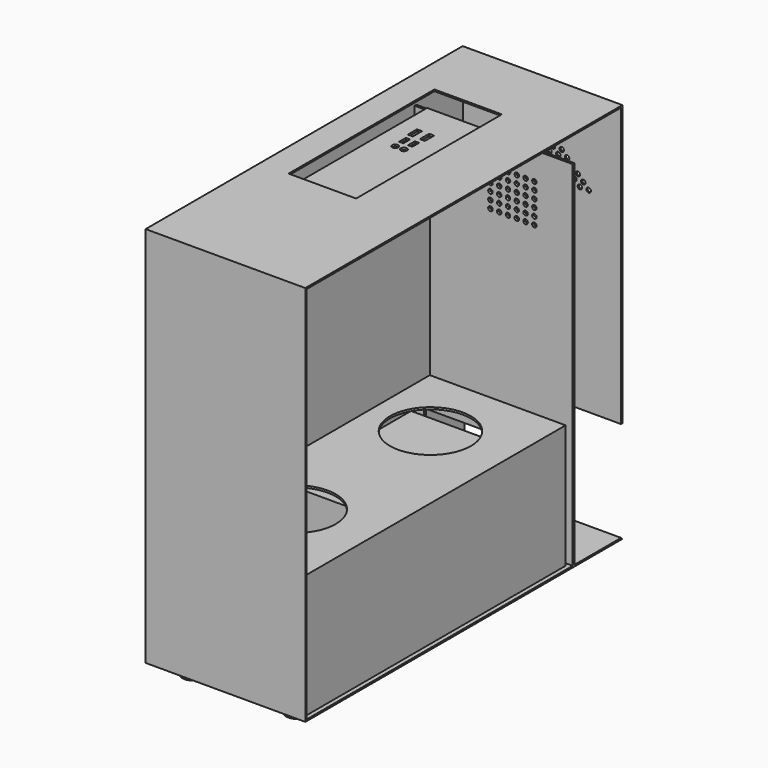
from build123d import *

# Parameters (mm, degrees)
F0_W      = 3.5828351974
F0_H      = 562.3756272411
F1_DEPTH  = 254
F2_DEPTH  = 2.54
F3_R      = 6.35
F4_DEPTH  = 2.54
F5_W      = 220.98
F5_H      = 128.7728445339
F6_DEPTH  = 3.5828351974
F7_W      = 250.1441463828
F7_H      = 131.2140226364
F8_DEPTH  = 236.22
F10_START = 30.48
F9_W      = 4.3791700155
F9_H      = 519.7931451416
F10_DEPTH = 375.92
F11_W     = 519.7931451416
F11_H     = 3.175
F12_DEPTH = 215.9
F13_W     = 461.5151062608
F13_H     = 23.0757594109
F14_DEPTH = 2.54
F15_R     = 64.3365167598
F16_DEPTH = 3.175
F17_R     = 17.78
F18_DEPTH = 12.7
F19_W     = 519.7931451416
F19_H     = 3.175
F20_DEPTH = 159.258
F21_W     = 3.175
F21_H     = 519.7931451416
F22_DEPTH = 30.48
F23_W     = 107.2892919183
F23_H     = 289.8685708642
F24_DEPTH = 2.54
F25_W     = 7.9401656985
F25_H     = 18.3234587312
F25_W_2   = 6.7186057568
F25_H_2   = 13.4372003376
F25_R     = 4.9567406814
F25_W_3   = 7.9401694238
F25_W_4   = 104.2897775769
F25_H_3   = 10.1222246885
F26_DEPTH = 3.175
F27_R     = 3.5606139281
F28_DEPTH = 3.5828351974
F29_R     = 3.5606139281
F30_DEPTH = 2.54
F31_W     = 3.175
F31_H     = 519.7931451416
F32_DEPTH = 193.548


with BuildPart() as f1:
    # F0 (on Right) → F1 (new body)
    with BuildSketch(Plane.YZ):
        Polygon((257.3447751188, -283.4332585335), (257.3447751188, 162.2474640608), (-372.9426860809, 162.2474640608), (-372.9426860809, -445.2261030674), (257.3447751188, -445.2261030674), (254.8047751188, -442.6861030674), (162.1221750975, -442.6861030674), (158.5393399, -442.6861030674), (-370.4026860809, -442.6861030674), (-370.4026860809, 159.7074640608), (254.8047751188, 159.7074640608), (254.8047751188, -283.4332585335), align=None)
        with Locations((160.3307574987, -161.4982894468)):
            Rectangle(F0_W, F0_H)
    extrude(amount=F1_DEPTH)

    # F0 (on Right) → F2 (join)
    with BuildSketch(Plane.YZ):
        Polygon((254.8047751188, -442.6861030674), (254.8047751188, -283.4332585335), (254.8047751188, 159.7074640608), (-370.4026860809, 159.7074640608), (-370.4026860809, -442.6861030674), (158.5393399, -442.6861030674), (158.5393399, 119.6895241737), (162.1221750975, 119.6895241737), (162.1221750975, -442.6861030674), align=None)
        Polygon((257.3447751188, -445.2261030674), (257.3447751188, -283.4332585335), (254.8047751188, -283.4332585335), (254.8047751188, -442.6861030674), align=None)
    extrude(amount=F2_DEPTH)

    # F3 (on face) → F4 (cut, through all)
    with BuildSketch(Plane(origin=(0, 0, -445.2261030674), x_dir=(1, 0, 0), z_dir=(0, 0, -1))):
        with Locations((212.7891480923, -95.8450734615)):
            Circle(F3_R)
        with Locations((212.344, -75.184)):
            Circle(F3_R)
        with Locations((211.8988519077, -54.5229265385)):
            Circle(F3_R)
        with Locations((211.4537038155, -33.8618530769)):
            Circle(F3_R)
        with Locations((211.0085557232, -13.2007796154)):
            Circle(F3_R)
        with Locations((210.5634076309, 7.4602938461)):
            Circle(F3_R)
        with Locations((210.1182595387, 28.1213673077)):
            Circle(F3_R)
        with Locations((182.8171480923, -95.8450734615)):
            Circle(F3_R)
        with Locations((182.372, -75.184)):
            Circle(F3_R)
        with Locations((181.9268519077, -54.5229265385)):
            Circle(F3_R)
        with Locations((181.4817038155, -33.8618530769)):
            Circle(F3_R)
        with Locations((181.0365557232, -13.2007796154)):
            Circle(F3_R)
        with Locations((180.5914076309, 7.4602938461)):
            Circle(F3_R)
        with Locations((180.1462595387, 28.1213673077)):
            Circle(F3_R)
        with Locations((152.8451480923, -95.8450734615)):
            Circle(F3_R)
        with Locations((152.4, -75.184)):
            Circle(F3_R)
        with Locations((151.9548519077, -54.5229265385)):
            Circle(F3_R)
        with Locations((151.5097038155, -33.8618530769)):
            Circle(F3_R)
        with Locations((151.0645557232, -13.2007796154)):
            Circle(F3_R)
        with Locations((150.6194076309, 7.4602938461)):
            Circle(F3_R)
        with Locations((150.1742595387, 28.1213673077)):
            Circle(F3_R)
        with Locations((122.8731480923, -95.8450734615)):
            Circle(F3_R)
        with Locations((122.428, -75.184)):
            Circle(F3_R)
        with Locations((121.9828519077, -54.5229265385)):
            Circle(F3_R)
        with Locations((121.5377038155, -33.8618530769)):
            Circle(F3_R)
        with Locations((121.0925557232, -13.2007796154)):
            Circle(F3_R)
        with Locations((120.6474076309, 7.4602938461)):
            Circle(F3_R)
        with Locations((120.2022595387, 28.1213673077)):
            Circle(F3_R)
        with Locations((92.9011480923, -95.8450734615)):
            Circle(F3_R)
        with Locations((92.456, -75.184)):
            Circle(F3_R)
        with Locations((92.0108519077, -54.5229265385)):
            Circle(F3_R)
        with Locations((91.5657038155, -33.8618530769)):
            Circle(F3_R)
        with Locations((91.1205557232, -13.2007796154)):
            Circle(F3_R)
        with Locations((90.6754076309, 7.4602938461)):
            Circle(F3_R)
        with Locations((90.2302595387, 28.1213673077)):
            Circle(F3_R)
        with Locations((62.9291480923, -95.8450734615)):
            Circle(F3_R)
        with Locations((62.484, -75.184)):
            Circle(F3_R)
        with Locations((62.0388519077, -54.5229265385)):
            Circle(F3_R)
        with Locations((61.5937038155, -33.8618530769)):
            Circle(F3_R)
        with Locations((61.1485557232, -13.2007796154)):
            Circle(F3_R)
        with Locations((60.7034076309, 7.4602938461)):
            Circle(F3_R)
        with Locations((60.2582595387, 28.1213673077)):
            Circle(F3_R)
        with Locations((32.9571480923, -95.8450734615)):
            Circle(F3_R)
        with Locations((32.512, -75.184)):
            Circle(F3_R)
        with Locations((32.0668519077, -54.5229265385)):
            Circle(F3_R)
        with Locations((31.6217038155, -33.8618530769)):
            Circle(F3_R)
        with Locations((31.1765557232, -13.2007796154)):
            Circle(F3_R)
        with Locations((30.7314076309, 7.4602938461)):
            Circle(F3_R)
        with Locations((30.2862595387, 28.1213673077)):
            Circle(F3_R)
    extrude(amount=-F4_DEPTH, mode=Mode.SUBTRACT)

    # F5 (on face) → F6 (cut, through all)
    with BuildSketch(Plane(origin=(0, 162.1221750975, 0), x_dir=(-1, 0, 0), z_dir=(0, 1, 0))):
        with Locations((-128.27, -363.0596808004)):
            Rectangle(F5_W, F5_H)
    extrude(amount=-F6_DEPTH, mode=Mode.SUBTRACT)

    # F7 (on face) → F8 (join)
    with BuildSketch(Plane.YZ.offset(2.54)):
        with Locations((26.4660604298, -370.4201281071)):
            Rectangle(F7_W, F7_H)
    extrude(amount=F8_DEPTH)

    # F9 (on face) → F10 (join)
    with BuildSketch(Plane(origin=(0, 0, 159.7074640608), x_dir=(1, 0, 0), z_dir=(0, 0, -1)).offset(F10_START)):
        with Locations((31.9708129391, 110.5061135101)):
            Rectangle(F9_W, F9_H)
    extrude(amount=F10_DEPTH)

    # F11 (on face) → F12 (join)
    with BuildSketch(Plane.YZ.offset(34.1603979468)):
        with Locations((-110.5061135101, -245.1050359392)):
            Rectangle(F11_W, F11_H)
    extrude(amount=F12_DEPTH)

    # F13 (on face) → F14 (cut, through all)
    with BuildSketch(Plane.YZ.offset(2.54)):
        with Locations((-106.6652052104, -279.5953154564)):
            Rectangle(F13_W, F13_H)
    extrude(amount=-F14_DEPTH, mode=Mode.SUBTRACT)

    # F15 (on face) → F16 (cut, through all)
    with BuildSketch(Plane(origin=(0, 0, -246.6925359392), x_dir=(1, 0, 0), z_dir=(0, 0, -1))):
        with Locations((128.7060081959, 236.3253980875)):
            Circle(F15_R)
        with Locations((128.7060081959, -32.4419997633)):
            Circle(F15_R)
    extrude(amount=-F16_DEPTH, mode=Mode.SUBTRACT)

    # F17 (on face) → F18 (join)
    with BuildSketch(Plane(origin=(0, 0, -445.2261030674), x_dir=(1, 0, 0), z_dir=(0, 0, -1))):
        with Locations((215.4285640589, 340.196877718)):
            Circle(F17_R)
        with Locations((50.1378259488, 340.196877718)):
            Circle(F17_R)
        with Locations((50.1378259488, -224.5989667559)):
            Circle(F17_R)
        with Locations((215.4285640589, -224.5989667559)):
            Circle(F17_R)
    extrude(amount=F18_DEPTH)

    # F19 (on face) → F20 (join)
    with BuildSketch(Plane.YZ.offset(34.1603979468)):
        with Locations((-110.5061135101, 127.6399640608)):
            Rectangle(F19_W, F19_H)
    extrude(amount=F20_DEPTH)

    # F21 (on face) → F22 (join, through all)
    with BuildSketch(Plane.XY.offset(129.2274640608)):
        with Locations((191.8308979468, -110.5061135101)):
            Rectangle(F21_W, F21_H)
    extrude(amount=F22_DEPTH)

    # F23 (on face) → F24 (cut, through all)
    with BuildSketch(Plane.XY.offset(162.2474640608)):
        with Locations((99.1269312799, -0.5644597113)):
            Rectangle(F23_W, F23_H)
    extrude(amount=-F24_DEPTH, mode=Mode.SUBTRACT)

    # F25 (on face) → F26 (cut, through all)
    with BuildSketch(Plane.XY.offset(129.2274640608)):
        with Locations((79.1465975344, 87.4992199242)):
            Rectangle(F25_W, F25_H)
        with Locations((77.3142501712, 63.0679409951)):
            Rectangle(F25_W_2, F25_H_2)
        with Locations((77.0088583231, 44.1337004304)):
            Circle(F25_R)
        with Locations((59.9069651216, 87.4868184328)):
            Rectangle(F25_W_3, F25_H)
        with Locations((63.1752535701, 44.1711656749)):
            Circle(F25_R)
        with Locations((62.8324598074, 63.3673891425)):
            Rectangle(F25_W_2, F25_H_2)
        with Locations((103.2383404672, -105.2152365446)):
            Rectangle(F25_W_4, F25_H_3)
    extrude(amount=-F26_DEPTH, mode=Mode.SUBTRACT)

    # F27 (on face) → F28 (cut, through all)
    with BuildSketch(Plane.XZ.offset(-158.5393399)):
        with Locations((123.1681779027, 14.7619349882)):
            Circle(F27_R)
        with Locations((123.19, 26.924)):
            Circle(F27_R)
        with Locations((123.2118220973, 39.0860650118)):
            Circle(F27_R)
        with Locations((123.2336441946, 51.2481300236)):
            Circle(F27_R)
        with Locations((123.2554662919, 63.4101950354)):
            Circle(F27_R)
        with Locations((123.2772883892, 75.5722600472)):
            Circle(F27_R)
        with Locations((137.1381779027, 14.7619349882)):
            Circle(F27_R)
        with Locations((137.16, 26.924)):
            Circle(F27_R)
        with Locations((137.1818220973, 39.0860650118)):
            Circle(F27_R)
        with Locations((137.2036441946, 51.2481300236)):
            Circle(F27_R)
        with Locations((137.2254662919, 63.4101950354)):
            Circle(F27_R)
        with Locations((137.2472883892, 75.5722600472)):
            Circle(F27_R)
        with Locations((151.1081779027, 14.7619349882)):
            Circle(F27_R)
        with Locations((151.13, 26.924)):
            Circle(F27_R)
        with Locations((151.1518220973, 39.0860650118)):
            Circle(F27_R)
        with Locations((151.1736441946, 51.2481300236)):
            Circle(F27_R)
        with Locations((151.1954662919, 63.4101950354)):
            Circle(F27_R)
        with Locations((151.2172883892, 75.5722600472)):
            Circle(F27_R)
        with Locations((165.0781779027, 14.7619349882)):
            Circle(F27_R)
        with Locations((165.1, 26.924)):
            Circle(F27_R)
        with Locations((165.1218220973, 39.0860650118)):
            Circle(F27_R)
        with Locations((165.1436441946, 51.2481300236)):
            Circle(F27_R)
        with Locations((165.1654662919, 63.4101950354)):
            Circle(F27_R)
        with Locations((165.1872883892, 75.5722600472)):
            Circle(F27_R)
        with Locations((179.0481779027, 14.7619349882)):
            Circle(F27_R)
        with Locations((179.07, 26.924)):
            Circle(F27_R)
        with Locations((179.0918220973, 39.0860650118)):
            Circle(F27_R)
        with Locations((179.1136441946, 51.2481300236)):
            Circle(F27_R)
        with Locations((179.1354662919, 63.4101950354)):
            Circle(F27_R)
        with Locations((179.1572883892, 75.5722600472)):
            Circle(F27_R)
        with Locations((193.0181779027, 14.7619349882)):
            Circle(F27_R)
        with Locations((193.04, 26.924)):
            Circle(F27_R)
        with Locations((193.0618220973, 39.0860650118)):
            Circle(F27_R)
        with Locations((193.0836441946, 51.2481300236)):
            Circle(F27_R)
        with Locations((193.1054662919, 63.4101950354)):
            Circle(F27_R)
        with Locations((193.1272883892, 75.5722600472)):
            Circle(F27_R)
    extrude(amount=-F28_DEPTH, mode=Mode.SUBTRACT)

    # F29 (on face) → F30 (cut, through all)
    with BuildSketch(Plane.XZ.offset(-254.8047751188)):
        with Locations((89.6414275053, 70.4199661453)):
            Circle(F29_R)
        with Locations((98.2163808952, 61.7952066753)):
            Circle(F29_R)
        with Locations((106.791334285, 53.1704472052)):
            Circle(F29_R)
        with Locations((115.3662876749, 44.5456877351)):
            Circle(F29_R)
        with Locations((123.9412410648, 35.920928265)):
            Circle(F29_R)
        with Locations((132.5161944546, 27.2961687949)):
            Circle(F29_R)
        with Locations((103.6114275053, 70.4199661453)):
            Circle(F29_R)
        with Locations((112.1863808952, 61.7952066753)):
            Circle(F29_R)
        with Locations((120.761334285, 53.1704472052)):
            Circle(F29_R)
        with Locations((129.3362876749, 44.5456877351)):
            Circle(F29_R)
        with Locations((137.9112410648, 35.920928265)):
            Circle(F29_R)
        with Locations((146.4861944546, 27.2961687949)):
            Circle(F29_R)
        with Locations((117.5814275053, 70.4199661453)):
            Circle(F29_R)
        with Locations((126.1563808952, 61.7952066753)):
            Circle(F29_R)
        with Locations((134.731334285, 53.1704472052)):
            Circle(F29_R)
        with Locations((143.3062876749, 44.5456877351)):
            Circle(F29_R)
        with Locations((151.8812410648, 35.920928265)):
            Circle(F29_R)
        with Locations((160.4561944546, 27.2961687949)):
            Circle(F29_R)
        with Locations((131.5514275053, 70.4199661453)):
            Circle(F29_R)
        with Locations((140.1263808952, 61.7952066753)):
            Circle(F29_R)
        with Locations((148.701334285, 53.1704472052)):
            Circle(F29_R)
        with Locations((157.2762876749, 44.5456877351)):
            Circle(F29_R)
        with Locations((165.8512410648, 35.920928265)):
            Circle(F29_R)
        with Locations((174.4261944546, 27.2961687949)):
            Circle(F29_R)
        with Locations((145.5214275053, 70.4199661453)):
            Circle(F29_R)
        with Locations((154.0963808952, 61.7952066753)):
            Circle(F29_R)
        with Locations((162.671334285, 53.1704472052)):
            Circle(F29_R)
        with Locations((171.2462876749, 44.5456877351)):
            Circle(F29_R)
        with Locations((179.8212410648, 35.920928265)):
            Circle(F29_R)
        with Locations((188.3961944546, 27.2961687949)):
            Circle(F29_R)
        with Locations((159.4914275053, 70.4199661453)):
            Circle(F29_R)
        with Locations((168.0663808952, 61.7952066753)):
            Circle(F29_R)
        with Locations((176.641334285, 53.1704472052)):
            Circle(F29_R)
        with Locations((185.2162876749, 44.5456877351)):
            Circle(F29_R)
        with Locations((193.7912410648, 35.920928265)):
            Circle(F29_R)
        with Locations((202.3661944546, 27.2961687949)):
            Circle(F29_R)
    extrude(amount=-F30_DEPTH, mode=Mode.SUBTRACT)

    # F31 (on face) → F32 (join)
    with BuildSketch(Plane(origin=(0, 0, -246.6925359392), x_dir=(1, 0, 0), z_dir=(0, 0, -1))):
        with Locations((248.4728979468, 110.5061135101)):
            Rectangle(F31_W, F31_H)
    extrude(amount=F32_DEPTH)


solid = f1.part
